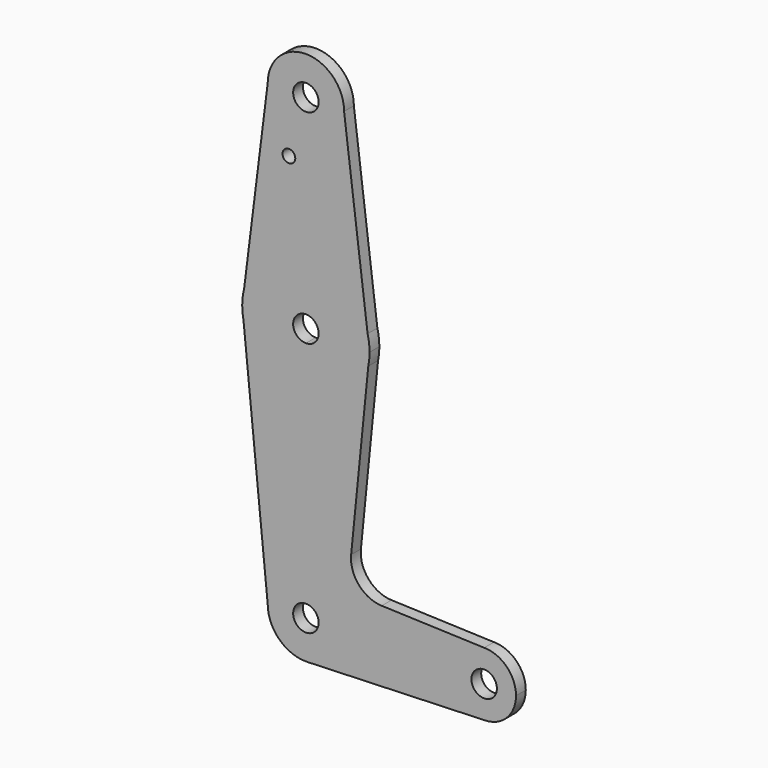
from build123d import *

# Parameters (mm, degrees)
F0_R     = 1.5875
F0_R_2   = 3.175
F1_DEPTH = 3.048


with BuildPart() as f1:
    # F0 (on Front) → F1 (new body)
    with BuildSketch(Plane.XZ):
        with BuildLine():
            ThreePointArc((3.175, 0), (2.2450640303, -2.2450640303), (0, -3.175))
            Line((0, -3.175), (0, -15.875))
            ThreePointArc((0, -15.875), (10.0526499203, -12.2865721249), (15.5606435644, -3.1435643564))
            Line((15.5606435644, -3.1435643564), (15.875, 0))
            Line((15.875, 0), (15.3865384615, 3.9076923077))
            ThreePointArc((15.3865384615, 3.9076923077), (9.7463072395, 12.5309664508), (0, 15.875))
            Line((0, 15.875), (0, 3.175))
            ThreePointArc((0, 3.175), (2.2450640303, 2.2450640303), (3.175, 0))
        make_face()
        with BuildLine():
            Line((0, -15.875), (0, -3.175))
            ThreePointArc((0, -3.175), (-3.175, 0), (0, 3.175))
            Line((0, 3.175), (0, 15.875))
            ThreePointArc((0, 15.875), (-9.7463072395, 12.5309664508), (-15.3865384615, 3.9076923077))
            Line((-15.3865384615, 3.9076923077), (-15.875, 0))
            Line((-15.875, 0), (-15.5606435644, -3.1435643564))
            ThreePointArc((-15.5606435644, -3.1435643564), (-10.0526499203, -12.2865721249), (0, -15.875))
        make_face()
        with BuildLine():
            ThreePointArc((15.5606435644, -3.1435643564), (10.0526499203, -12.2865721249), (0, -15.875))
            Line((0, -15.875), (0, -53.975))
            ThreePointArc((0, -53.975), (6.7351920908, -56.7648079092), (9.525, -63.5))
            ThreePointArc((9.525, -63.5), (6.8544082857, -70.1138273378), (0.3401785714, -73.0189234444))
            Line((0.3401785714, -73.0189234444), (44.7334821429, -71.4324362036))
            ThreePointArc((44.7334821429, -71.4324362036), (36.5137660501, -63.6417636831), (44.45, -55.5625))
            Line((44.45, -55.5625), (18.9098309362, -54.6468349072))
            ThreePointArc((18.9098309362, -54.6468349072), (13.2053461582, -51.9298922672), (11.2839335034, -45.9106649662))
            Line((11.2839335034, -45.9106649662), (15.5606435644, -3.1435643564))
        make_face()
        with BuildLine():
            Line((0, -53.975), (0, -15.875))
            ThreePointArc((0, -15.875), (-10.0526499203, -12.2865721249), (-15.5606435644, -3.1435643564))
            Line((-15.5606435644, -3.1435643564), (-9.525, -63.5))
            ThreePointArc((-9.525, -63.5), (-6.7351920908, -56.7648079092), (0, -53.975))
        make_face()
        with BuildLine():
            ThreePointArc((-15.3865384615, 3.9076923077), (-9.7463072395, 12.5309664508), (0, 15.875))
            ThreePointArc((0, 15.875), (9.7463072395, 12.5309664508), (15.3865384615, 3.9076923077))
            Line((15.3865384615, 3.9076923077), (9.525, 50.8))
            ThreePointArc((9.525, 50.8), (0, 41.275), (-9.525, 50.8))
            Line((-9.525, 50.8), (-15.3865384615, 3.9076923077))
        make_face()
        with Locations((-4.2312750593, 36.5252)):
            Circle(F0_R, mode=Mode.SUBTRACT)
        with BuildLine():
            ThreePointArc((9.525, -63.5), (6.7351920908, -56.7648079092), (0, -53.975))
            ThreePointArc((0, -53.975), (-6.7351920908, -56.7648079092), (-9.525, -63.5))
            ThreePointArc((-9.525, -63.5), (-6.6138273378, -70.3544082857), (0.3401785714, -73.0189234444))
            ThreePointArc((0.3401785714, -73.0189234444), (6.8544082857, -70.1138273378), (9.525, -63.5))
        make_face()
        with BuildLine():
            ThreePointArc((3.175, -63.5), (-2.2450640303, -65.7450640303), (0, -60.325))
            ThreePointArc((0, -60.325), (2.2450640303, -61.2549359697), (3.175, -63.5))
        make_face(mode=Mode.SUBTRACT)
        with BuildLine():
            ThreePointArc((-15.875, 0), (-15.7962153946, -1.5796215395), (-15.5606435644, -3.1435643564))
            Line((-15.5606435644, -3.1435643564), (-15.875, 0))
        make_face()
        with BuildLine():
            Line((15.875, 0), (15.5606435644, -3.1435643564))
            ThreePointArc((15.5606435644, -3.1435643564), (15.7962153946, -1.5796215395), (15.875, 0))
        make_face()
        with BuildLine():
            ThreePointArc((15.875, 0), (15.7524112928, 1.9690514116), (15.3865384615, 3.9076923077))
            Line((15.3865384615, 3.9076923077), (15.875, 0))
        make_face()
        with BuildLine():
            Line((-15.875, 0), (-15.3865384615, 3.9076923077))
            ThreePointArc((-15.3865384615, 3.9076923077), (-15.7524112928, 1.9690514116), (-15.875, 0))
        make_face()
        with BuildLine():
            ThreePointArc((-9.525, 50.8), (0, 41.275), (9.525, 50.8))
            ThreePointArc((9.525, 50.8), (0, 60.325), (-9.525, 50.8))
        make_face()
        with Locations((0, 50.8)):
            Circle(F0_R_2, mode=Mode.SUBTRACT)
        with BuildLine():
            ThreePointArc((44.45, -55.5625), (36.5137660501, -63.6417636831), (44.7334821429, -71.4324362036))
            ThreePointArc((44.7334821429, -71.4324362036), (50.1620069047, -69.0115227815), (52.3875, -63.5))
            ThreePointArc((52.3875, -63.5), (50.0626600757, -57.8873399243), (44.45, -55.5625))
        make_face()
        with Locations((44.45, -63.5)):
            Circle(F0_R_2, mode=Mode.SUBTRACT)
    extrude(amount=F1_DEPTH)


solid = f1.part
